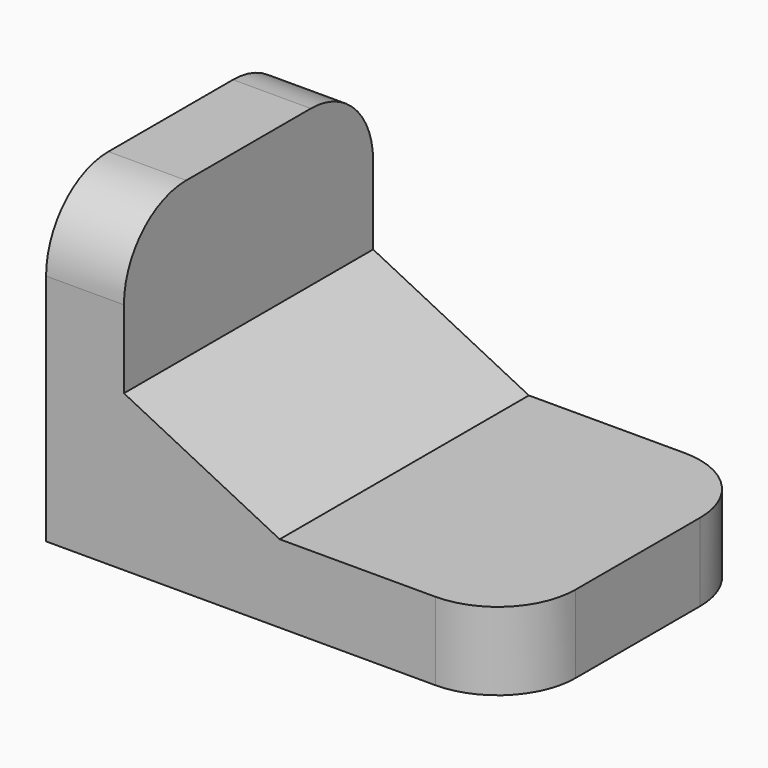
from build123d import *

# Parameters (mm, degrees)
F1_DEPTH = 20
F2_R     = 10


with BuildPart() as f1:
    # F0 (on Front) → F1 (new body, symmetric)
    with BuildSketch(Plane.XZ):
        Polygon((0, 40), (0, 0), (60, 0), (60, 10), (30, 10), (10, 20), (10, 40), align=None)
    extrude(amount=F1_DEPTH, both=True)

    # F2
    f2_edges = [f1.edges().sort_by_distance(p)[0] for p in [
        (5, -20, 40),
        (5, 20, 40),
        (60, -20, 5),
        (60, 20, 5),
    ]]
    fillet(f2_edges, radius=F2_R)


solid = f1.part
